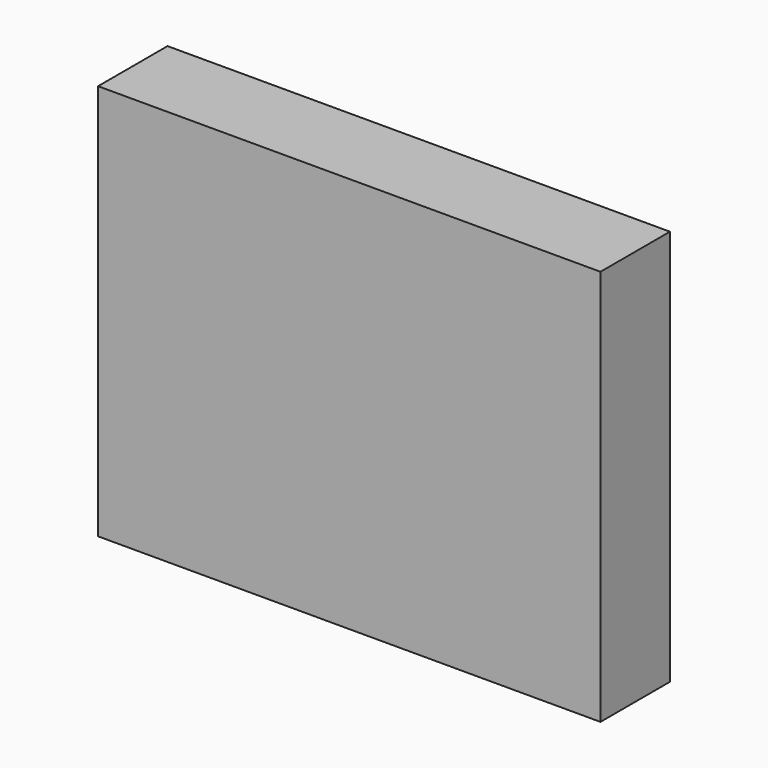
from build123d import *

# Parameters (mm, degrees)
F0_W     = 115.706496
F0_H     = 91.266837
F1_DEPTH = 10


with BuildPart() as f1:
    # F0 (on Front) → F1 (new body)
    with BuildSketch(Plane.XZ):
        with Locations((-0.343807, 2.258668)):
            Rectangle(F0_W, F0_H)
    extrude(amount=F1_DEPTH)

    # F2: F1 across face


with BuildPart() as f1_1:
    add(f1.part)
    add(f1.part.mirror(Plane(origin=(-0.343807, 0, 2.258668), x_dir=(1, 0, 0), z_dir=(0, 1, 0))))


solid = f1_1.part
